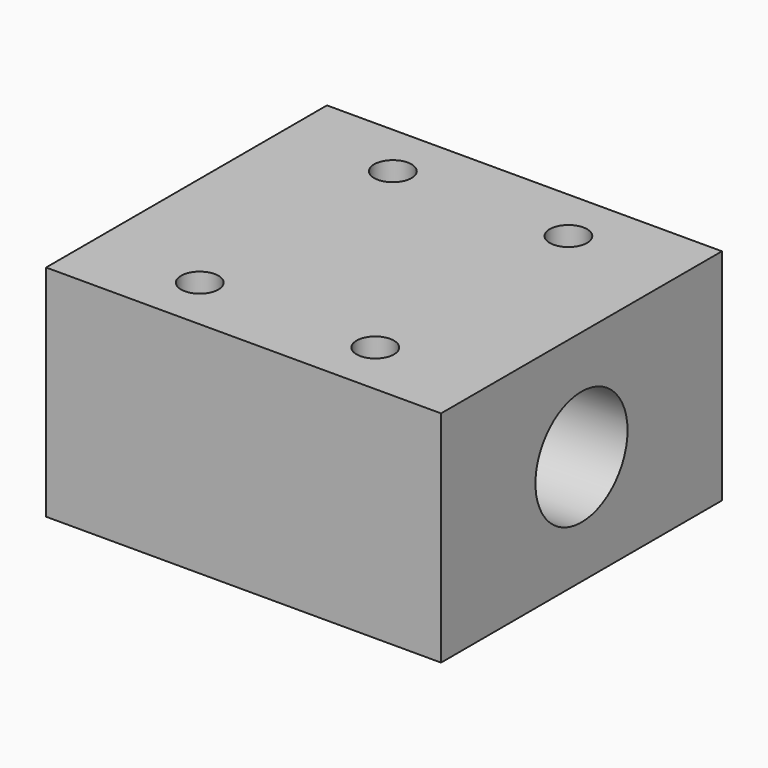
from build123d import *

# Parameters (mm, degrees)
F0_W     = 57.15
F0_H     = 50.8
F1_DEPTH = 31.75
F2_D     = 5.4102
F2_DEPTH = 27.94
F2_TIP   = 1.6253880605
F3_R     = 8.3312
F4_DEPTH = 57.151


with BuildPart() as f1:
    # F0 (on Top) → F1 (new body)
    with BuildSketch(Plane.XY):
        with Locations((-28.575, -25.4)):
            Rectangle(F0_W, F0_H)
    extrude(amount=-F1_DEPTH)

    # F2
    with Locations(Plane.XY):
        with Locations((-15.875, -7.9248), (-15.875, -42.8498), (-41.275, -42.8498), (-41.275, -7.9248)):
            Hole(F2_D / 2, depth=F2_DEPTH)
            with Locations((0, 0, -(F2_DEPTH + F2_TIP / 2))):  # 118° drill point
                Cone(0, F2_D / 2, F2_TIP, mode=Mode.SUBTRACT)

    # F3 (on face) → F4 (cut, through all)
    with BuildSketch(Plane.YZ):
        with Locations((-25.4, -15.875)):
            Circle(F3_R)
    extrude(amount=-F4_DEPTH, mode=Mode.SUBTRACT)


solid = f1.part
